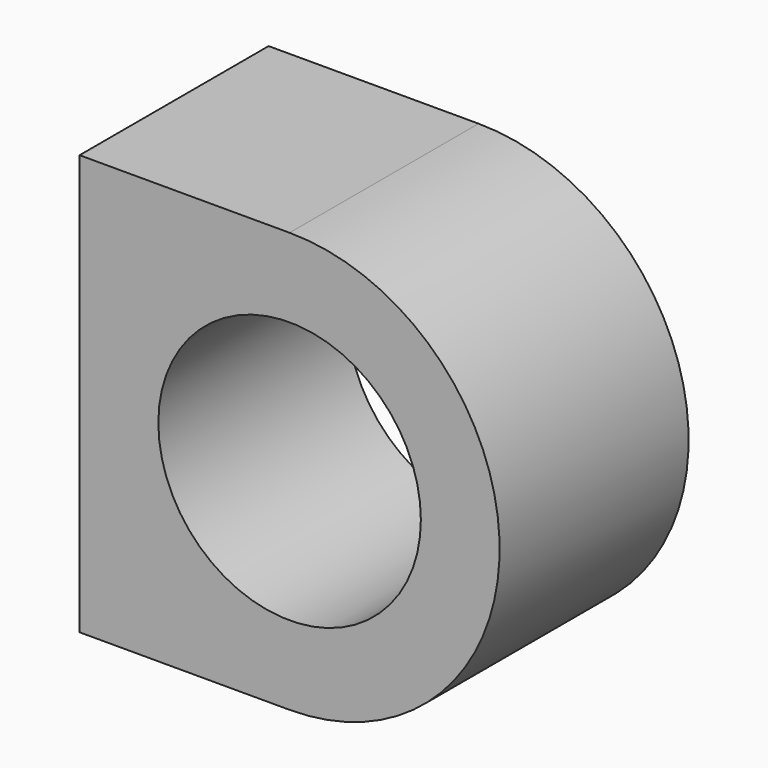
from build123d import *

# Parameters (mm, degrees)
CYLINDER022_R          = 5
CYLINDER022_DEPTH      = 9
CYLINDER022_ROLL_ANGLE = 90
BOX030_W               = 8
BOX030_H               = 9
BOX030_DEPTH           = 16
CYLINDER021_R          = 8
CYLINDER021_DEPTH      = 9
CYLINDER021_ROLL_ANGLE = 90


with BuildPart() as zylinder008:
    # Cylinder022 → Cylinder022 (new body)
    with BuildSketch(Plane.XY):
        Circle(CYLINDER022_R)
    extrude(amount=CYLINDER022_DEPTH)


with BuildPart() as zylinder008_1:
    # Cylinder022 roll: moved
    add(zylinder008.part.rotate(Axis((0, 0, 0), (1, 0, 0)), CYLINDER022_ROLL_ANGLE))


with BuildPart() as zylinder008_2:
    # Cylinder022 placement: moved
    add(zylinder008_1.part.moved(Location((8, 9, 8))))


with BuildPart() as obj1:
    # Box030 → Box030 (new body)
    with BuildSketch(Plane.XY):
        with Locations((4, 4.5)):
            Rectangle(BOX030_W, BOX030_H)
    extrude(amount=BOX030_DEPTH)


with BuildPart() as obj2:
    # Cylinder021 → Cylinder021 (new body)
    with BuildSketch(Plane.XY):
        Circle(CYLINDER021_R)
    extrude(amount=CYLINDER021_DEPTH)


with BuildPart() as obj2_1:
    # Cylinder021 roll: moved
    add(obj2.part.rotate(Axis((0, 0, 0), (1, 0, 0)), CYLINDER021_ROLL_ANGLE))


with BuildPart() as obj2_2:
    # Cylinder021 placement: moved
    add(obj2_1.part.moved(Location((8, 9, 8))))

    # Fusion015: union obj1
    add(obj1.part)

    # Cut020: cut Zylinder008
    add(zylinder008_2.part, mode=Mode.SUBTRACT)


with BuildPart() as obj2_3:
    # Cut020 placement: moved
    add(obj2_2.part.moved(Location((160, 10, 20))))


solid = obj2_3.part
